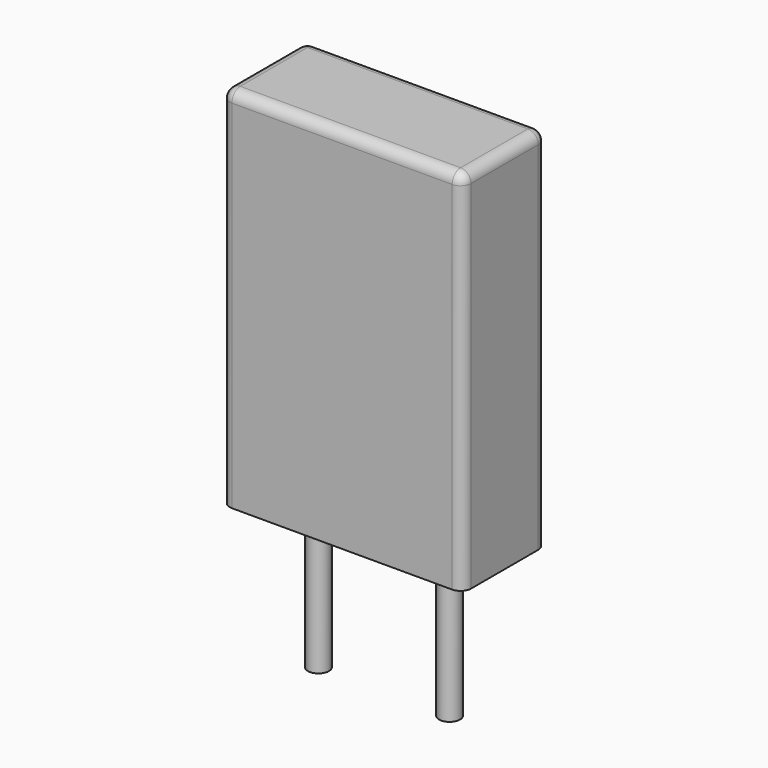
from build123d import *

# Parameters (mm, degrees)
SKETCH_W     = 4.6
SKETCH_H     = 2
PAD_DEPTH    = 7
FILLET_R     = 0.2
SKETCH001_R  = 0.2
PAD001_DEPTH = 3.2


with BuildPart() as fillet_body:
    # Sketch → Pad (new body)
    with BuildSketch(Plane.XY.offset(0.1)):
        with Locations((1.25, 0)):
            Rectangle(SKETCH_W, SKETCH_H)
    extrude(amount=PAD_DEPTH)

    # Fillet
    fillet_edges = [fillet_body.edges().sort_by_distance(p)[0] for p in [
        (-1.05, 0, 7.1),
        (-1.05, -1, 3.6),
        (1.25, -1, 7.1),
        (3.55, -1, 3.6),
        (3.55, 0, 7.1),
        (3.55, 1, 3.6),
        (1.25, 1, 7.1),
        (-1.05, 1, 3.6),
    ]]
    fillet(fillet_edges, radius=FILLET_R)


with BuildPart() as pad001:
    # Sketch001 → Pad001 (new body)
    with BuildSketch(Plane.XY.offset(0.5)):
        Circle(SKETCH001_R)
        with Locations((2.5, 0)):
            Circle(SKETCH001_R)
    extrude(amount=-PAD001_DEPTH)


solid = Compound([fillet_body.part, pad001.part])
